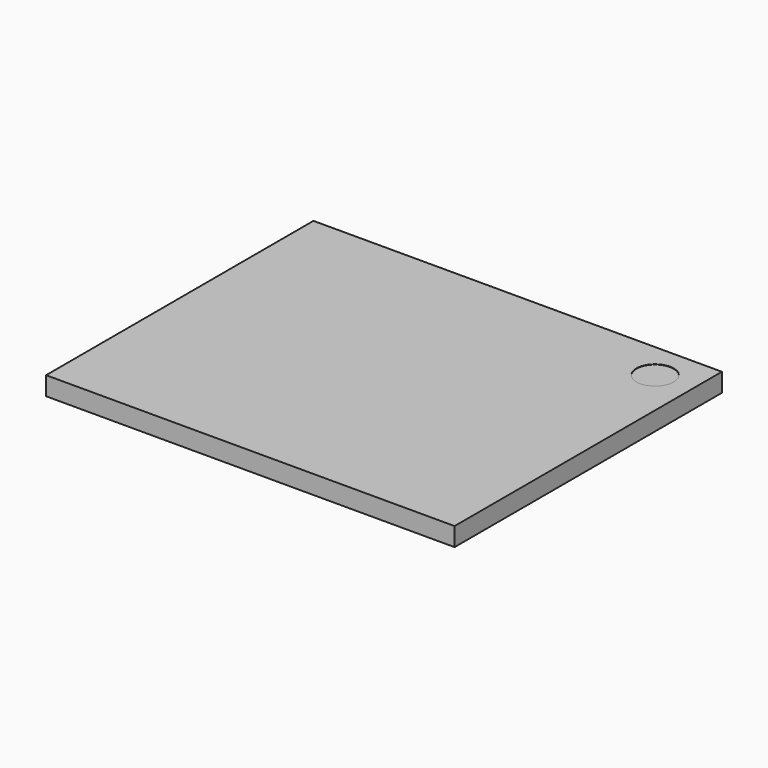
from build123d import *

# Parameters (mm, degrees)
CYLINDER025_R          = 0.5
CYLINDER025_DEPTH      = 0.01
BOX070_W               = 9
BOX070_H               = 11
BOX070_DEPTH           = 0.5
CUT018_PLACEMENT_ANGLE = 270


with BuildPart() as cylinder025:
    # Cylinder025 → Cylinder025 (new body)
    with BuildSketch(Plane(origin=(1, 10, 0.49), x_dir=(1, 0, 0), z_dir=(0, 0, 1))):
        Circle(CYLINDER025_R)
    extrude(amount=CYLINDER025_DEPTH)


with BuildPart() as obj1:
    # Box070 → Box070 (new body)
    with BuildSketch(Plane.XY):
        with Locations((4.5, 5.5)):
            Rectangle(BOX070_W, BOX070_H)
    extrude(amount=BOX070_DEPTH)

    # Cut018: cut Cylinder025
    add(cylinder025.part, mode=Mode.SUBTRACT)


with BuildPart() as obj1_1:
    # Cut018 placement: moved
    add(obj1.part.moved(Location((-4.76, 18.63, 19.45))).rotate(Axis((-4.76, 18.63, 19.45), (0, 0, 1)), CUT018_PLACEMENT_ANGLE))


solid = obj1_1.part
